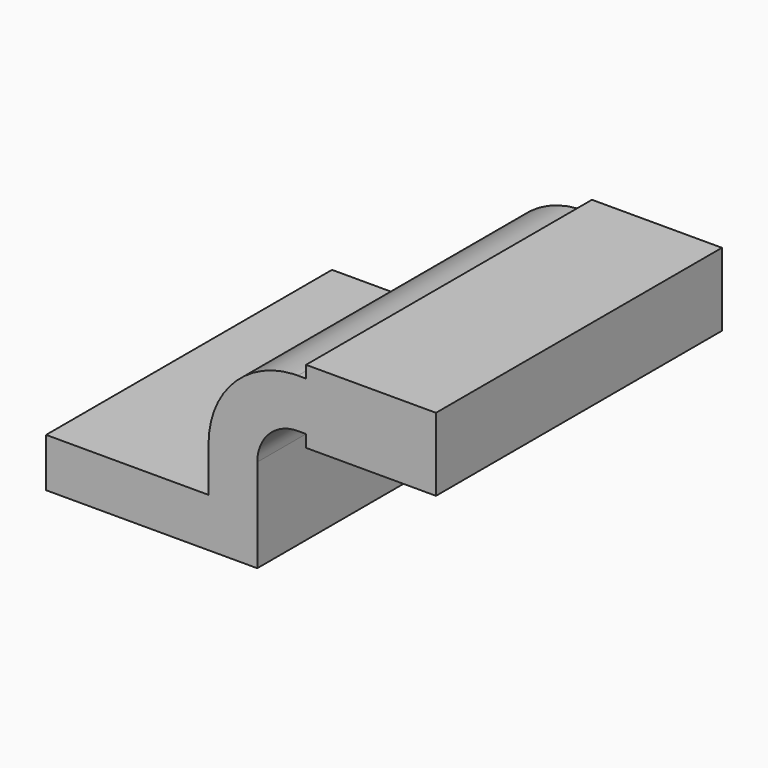
from build123d import *

# Parameters (mm, degrees)
F0_W     = 25.4
F0_H     = 4.7498
F0_H_2   = 4.7752
F0_H_3   = 19.05
F1_DEPTH = 25.4
F2_DEPTH = 63.5
F3_DEPTH = 12.7


with BuildPart() as f1:
    # F0 (on Front) → F1 (new body, symmetric)
    with BuildSketch(Plane.XZ):
        with Locations((73.025, 64.3001)):
            Rectangle(F0_W, F0_H)
        with Locations((73.025, 40.4876)):
            Rectangle(F0_W, F0_H_2)
        with BuildLine():
            Line((22.225, 9.525), (41.275, 9.525))
            Line((41.275, 9.525), (41.275, 27.0002))
            ThreePointArc((41.275, 27.0002), (45.9246798487, 38.2255201513), (57.15, 42.8752))
            Line((57.15, 42.8752), (60.325, 42.8752))
            Line((60.325, 42.8752), (60.325, 61.9252))
            Line((60.325, 61.9252), (57.15, 61.9252))
            add(Edge.make_bspline(
                [(55.0049951234, 61.8592673868), (55.7203693302, 61.8825211743), (56.4354212261, 61.9044283334), (57.15, 61.9252)],
                knots=[109.5299309045, 109.5299309045, 109.5299309045, 109.5299309045, 111.5045361635, 111.5045361635, 111.5045361635, 111.5045361635], degree=3))
            ThreePointArc((55.0049951234, 61.8592673868), (31.7072218467, 50.9255143102), (22.225, 27.0002))
            Line((22.225, 27.0002), (22.225, 9.525))
        make_face()
        with Locations((73.025, 52.4002)):
            Rectangle(F0_W, F0_H_3)
        Polygon((85.725, 61.9252), (85.725, 42.8752), (85.725, 38.1), (111.125, 38.1), (111.125, 66.675), (85.725, 66.675), align=None)
        with Locations((73.025, 52.4002)):
            Rectangle(F0_W, F0_H_3)
        with Locations((73.025, 40.4876)):
            Rectangle(F0_W, F0_H_2)
        with BuildLine():
            Line((22.225, 9.525), (41.275, 9.525))
            Line((41.275, 9.525), (41.275, 27.0002))
            ThreePointArc((41.275, 27.0002), (45.9246798487, 38.2255201513), (57.15, 42.8752))
            Line((57.15, 42.8752), (60.325, 42.8752))
            Line((60.325, 42.8752), (60.325, 61.9252))
            Line((60.325, 61.9252), (57.15, 61.9252))
            add(Edge.make_bspline(
                [(55.0049951234, 61.8592673868), (55.7203693302, 61.8825211743), (56.4354212261, 61.9044283334), (57.15, 61.9252)],
                knots=[109.5299309045, 109.5299309045, 109.5299309045, 109.5299309045, 111.5045361635, 111.5045361635, 111.5045361635, 111.5045361635], degree=3))
            ThreePointArc((55.0049951234, 61.8592673868), (31.7072218467, 50.9255143102), (22.225, 27.0002))
            Line((22.225, 27.0002), (22.225, 9.525))
        make_face()
        with BuildLine():
            ThreePointArc((57.15, 61.9252), (56.0769910263, 61.9087129552), (55.0049951234, 61.8592673868))
            add(Edge.make_bspline(
                [(55.0049951234, 61.8592673868), (55.7203693302, 61.8825211743), (56.4354212261, 61.9044283334), (57.15, 61.9252)],
                knots=[109.5299309045, 109.5299309045, 109.5299309045, 109.5299309045, 111.5045361635, 111.5045361635, 111.5045361635, 111.5045361635], degree=3))
        make_face()
        Polygon((85.725, 61.9252), (85.725, 42.8752), (85.725, 38.1), (111.125, 38.1), (111.125, 66.675), (85.725, 66.675), align=None)
        Polygon((41.275, -9.525), (41.275, 9.525), (22.225, 9.525), (-41.275, 9.525), (-41.275, -9.525), align=None)
        with Locations((73.025, 64.3001)):
            Rectangle(F0_W, F0_H)
    extrude(amount=F1_DEPTH, both=True)

    # F2 (add, symmetric): a face of the model
    f2_faces = [f1.faces().sort_by_distance(p)[0] for p in [
        (40.4852696712, -25.4, 28.4092448442),
    ]]
    extrude(f2_faces, amount=F2_DEPTH, both=True)

    # F3 (add, symmetric): a face of the model
    f3_faces = [f1.faces().sort_by_distance(p)[0] for p in [
        (40.4852696712, -88.9, 28.4092448442),
    ]]
    extrude(f3_faces, amount=F3_DEPTH, both=True)


solid = f1.part
